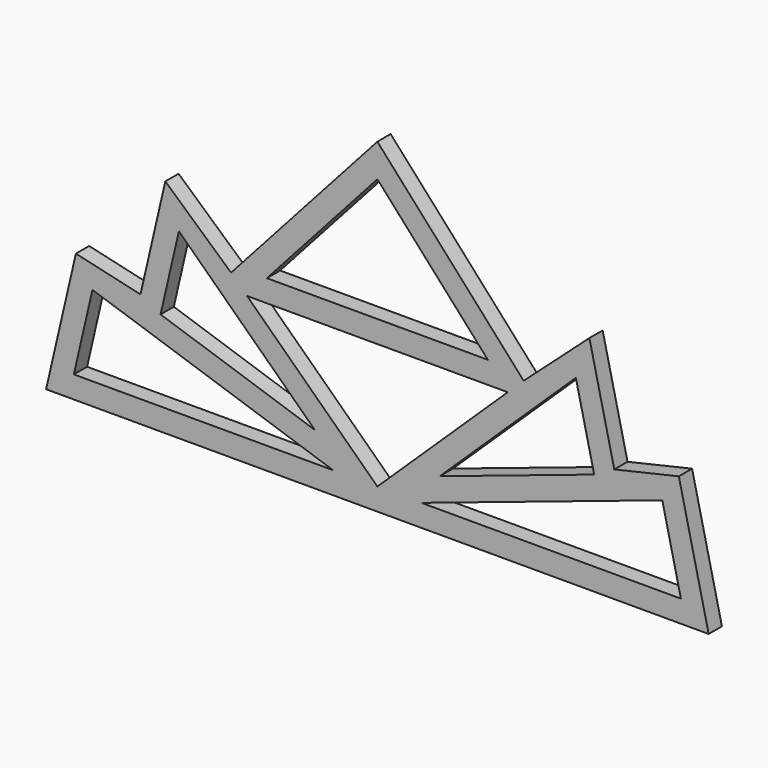
from build123d import *

# Parameters (mm, degrees)
F1_DEPTH = 1.905


with BuildPart() as f1:
    # F0 (on Front) → F1 (new body)
    with BuildSketch(Plane.XZ):
        Polygon((-41.968571, -10.89288), (-45.39966, -25.741625), (30.80034, -25.741625), (27.369251, -10.89288), (19.944878, -12.608424), (17.085638, -0.23447), (9.526013, -7.022524), (-7.29966, 11.715655), (-24.125334, -7.022524), (-31.684958, -0.23447), (-34.544199, -12.608424), align=None)
        Polygon((-42.205817, -23.201625), (-40.065629, -13.939519), (-12.37966, -23.201625), align=None, mode=Mode.SUBTRACT)
        Polygon((-32.23155, -13.881976), (-30.125157, -4.766125), (-14.476111, -19.821908), align=None, mode=Mode.SUBTRACT)
        Polygon((-7.29966, -23.201625), (-22.290579, -8.779019), (7.691259, -8.779019), align=None, mode=Mode.SUBTRACT)
        Polygon((-2.21966, -23.201625), (25.466308, -13.939519), (27.606496, -23.201625), align=None, mode=Mode.SUBTRACT)
        Polygon((17.63223, -13.881976), (-0.123209, -19.821908), (15.525837, -4.766125), align=None, mode=Mode.SUBTRACT)
        Polygon((-20.008083, -6.239019), (-7.29966, 7.913917), (5.408762, -6.239019), align=None, mode=Mode.SUBTRACT)
    extrude(amount=F1_DEPTH)


solid = f1.part
